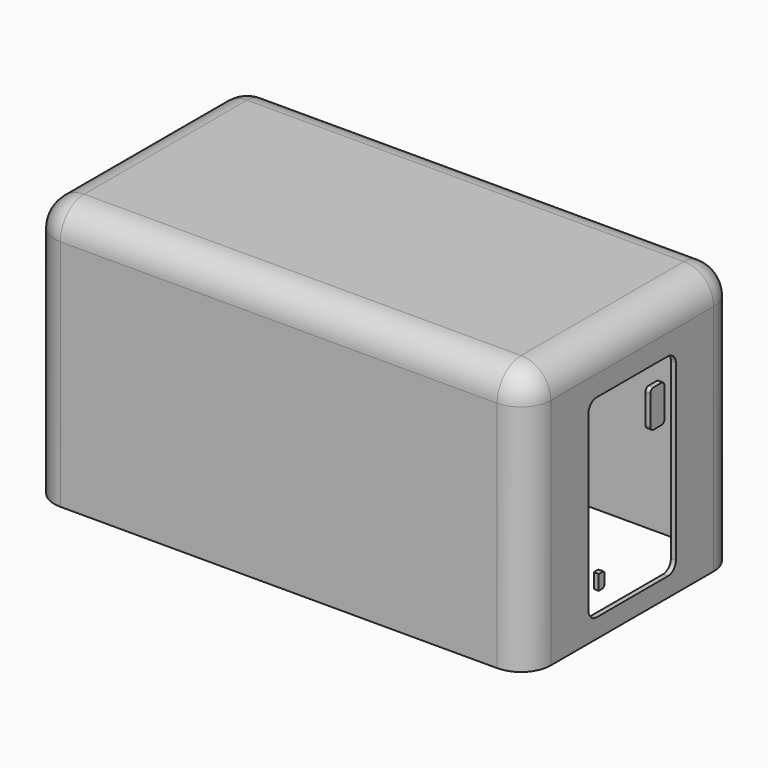
from build123d import *

# Parameters (mm, degrees)
F0_W     = 2540
F0_H     = 1346.2
F1_DEPTH = 1346.2
F2_R     = 152.4
F3_T     = -25.4
F5_DEPTH = 3449.32
F6_W     = 1134.432077
F6_H     = 961.140863
F7_DEPTH = 25.4


with BuildPart() as f1:
    # F0 (on Top) → F1 (new body)
    with BuildSketch(Plane.XY):
        with Locations((40.225086, 0)):
            Rectangle(F0_W, F0_H)
    extrude(amount=F1_DEPTH)

    # F2
    f2_edges = [f1.edges().sort_by_distance(p)[0] for p in [
        (-1229.774914, 673.1, 673.1),
        (-1229.774914, 0, 1346.2),
        (-1229.774914, -673.1, 673.1),
        (40.225086, -673.1, 1346.2),
        (1310.225086, 0, 1346.2),
        (1310.225086, -673.1, 673.1),
        (1310.225086, 673.1, 673.1),
        (40.225086, 673.1, 1346.2),
    ]]
    fillet(f2_edges, radius=F2_R)

    # F3
    f3_openings = [f1.faces().sort_by_distance(p)[0] for p in [
        (40.225086, 0, 0),
    ]]
    offset(amount=F3_T, openings=f3_openings)

    # F4 (on face) → F5 (cut)
    with BuildSketch(Plane(origin=(-1229.774914, 0, 0), x_dir=(0, -1, 0), z_dir=(-1, 0, 0))):
        with BuildLine():
            ThreePointArc((279.4, 1037.517101), (264.521024, 1073.438126), (228.6, 1088.317101))
            Line((228.6, 1088.317101), (-228.6, 1088.317101))
            ThreePointArc((-228.6, 1088.317101), (-264.521024, 1073.438126), (-279.4, 1037.517101))
            Line((-279.4, 1037.517101), (-279.4, 148.517101))
            ThreePointArc((-279.4, 148.517101), (-264.521024, 112.596077), (-228.6, 97.717101))
            Line((-228.6, 97.717101), (228.6, 97.717101))
            ThreePointArc((228.6, 97.717101), (264.521024, 112.596077), (279.4, 148.517101))
            Line((279.4, 148.517101), (279.4, 1037.517101))
        make_face()
        with BuildLine():
            Line((214.070957, 211.324298), (195.020957, 211.324298))
            ThreePointArc((195.020957, 211.324298), (181.550573, 216.903914), (175.970957, 230.374298))
            Line((175.970957, 230.374298), (175.970957, 274.824298))
            ThreePointArc((175.970957, 274.824298), (179.690701, 283.804554), (188.670957, 287.524298))
            Line((188.670957, 287.524298), (214.070957, 287.524298))
            Line((214.070957, 287.524298), (214.070957, 211.324298))
        make_face(mode=Mode.SUBTRACT)
        with BuildLine():
            ThreePointArc((-206.34158, 966.342371), (-200.761964, 979.812755), (-187.29158, 985.392371))
            Line((-187.29158, 985.392371), (-136.49158, 985.392371))
            ThreePointArc((-136.49158, 985.392371), (-123.021195, 979.812755), (-117.44158, 966.342371))
            Line((-117.44158, 966.342371), (-117.44158, 813.942371))
            ThreePointArc((-117.44158, 813.942371), (-123.021195, 800.471987), (-136.49158, 794.892371))
            Line((-136.49158, 794.892371), (-187.29158, 794.892371))
            ThreePointArc((-187.29158, 794.892371), (-200.761964, 800.471987), (-206.34158, 813.942371))
            Line((-206.34158, 813.942371), (-206.34158, 966.342371))
        make_face(mode=Mode.SUBTRACT)
    extrude(amount=-F5_DEPTH, mode=Mode.SUBTRACT)

    # F6 (on face) → F7 (cut)
    with BuildSketch(Plane(origin=(0, 673.1, 0), x_dir=(-1, 0, 0), z_dir=(0, 1, 0))):
        with Locations((11.583627, 519.770268)):
            Rectangle(F6_W, F6_H)
    extrude(amount=-F7_DEPTH, mode=Mode.SUBTRACT)


solid = f1.part
